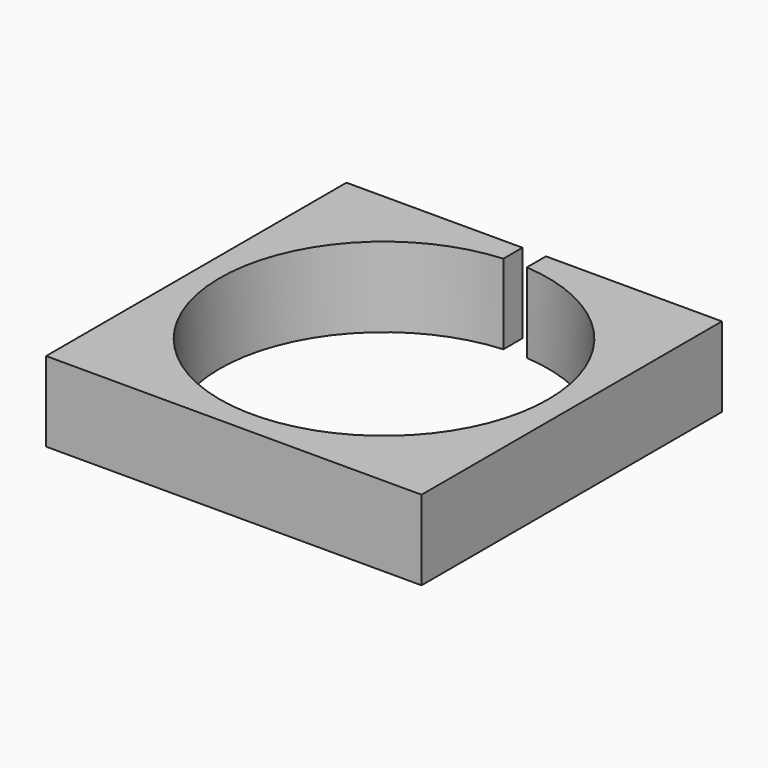
from build123d import *

# Parameters (mm, degrees)
SKETCH040_W     = 80
SKETCH040_H     = 80
PAD013_DEPTH    = 17
SKETCH041_R     = 35
POCKET014_DEPTH = 20
SKETCH044_W     = 5
SKETCH044_H     = 20.180618
POCKET017_DEPTH = 24


with BuildPart() as part:
    # Sketch040 → Pad013 (new body)
    with BuildSketch(Plane.XY):
        Rectangle(SKETCH040_W, SKETCH040_H)
    extrude(amount=-PAD013_DEPTH)

    # Sketch041 (on Face6 of Pad013) → Pocket014 (cut)
    with BuildSketch(Plane(origin=(0, 0, -17), x_dir=(1, 0, 0), z_dir=(0, 0, -1))):
        Circle(SKETCH041_R)
    extrude(amount=-POCKET014_DEPTH, mode=Mode.SUBTRACT)

    # Sketch044 (on Face5 of Pocket014) → Pocket017 (cut)
    with BuildSketch(Plane(origin=(0, 0, -17), x_dir=(1, 0, 0), z_dir=(0, 0, -1))):
        with Locations((0, -41.150577)):
            Rectangle(SKETCH044_W, SKETCH044_H)
    extrude(amount=-POCKET017_DEPTH, mode=Mode.SUBTRACT)


solid = part.part
